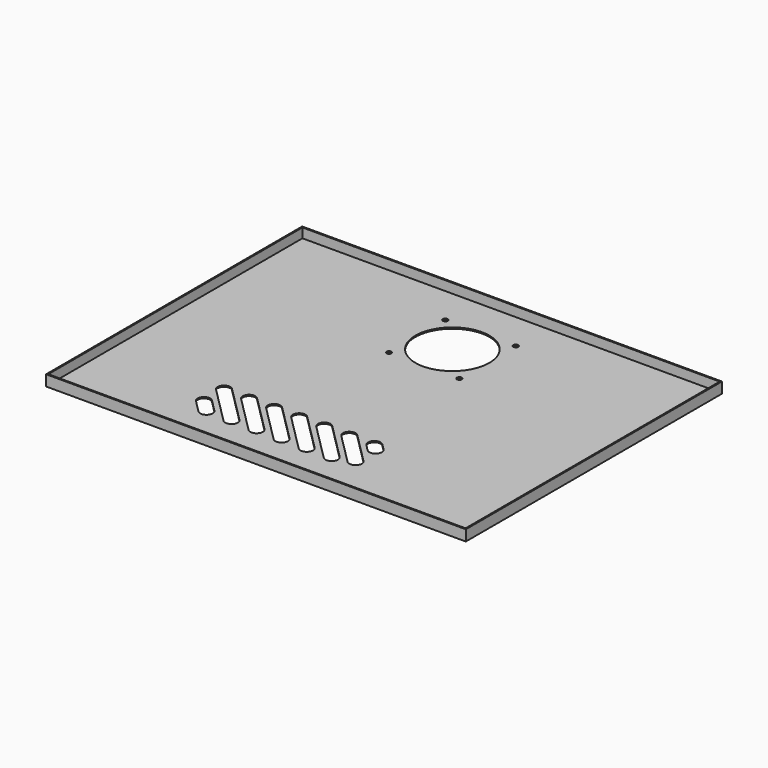
from build123d import *

# Parameters (mm, degrees)
F0_W     = 425.45
F0_H     = 324.485
F0_R     = 2.5
F0_R_2   = 37.5
F1_DEPTH = 1.27
F2_W     = 425.45
F2_H     = 324.485
F2_W_2   = 422.91
F2_H_2   = 321.945
F3_DEPTH = 9.652


with BuildPart() as f1:
    # F0 (on Top) → F1 (new body)
    with BuildSketch(Plane.XY):
        Rectangle(F0_W, F0_H)
        with BuildLine():
            ThreePointArc((-102.915128, -109.578792), (-102.915128, -100.598536), (-93.934872, -100.598536))
            Line((-93.934872, -100.598536), (-81.231036, -113.302372))
            ThreePointArc((-81.231036, -113.302372), (-81.231036, -122.282628), (-90.211292, -122.282628))
            Line((-90.211292, -122.282628), (-102.915128, -109.578792))
        make_face(mode=Mode.SUBTRACT)
        with BuildLine():
            ThreePointArc((-102.915128, -84.182628), (-102.915128, -75.202372), (-93.934872, -75.202372))
            Line((-93.934872, -75.202372), (-55.834872, -113.302372))
            ThreePointArc((-55.834872, -113.302372), (-55.834872, -122.282628), (-64.815128, -122.282628))
            Line((-64.815128, -122.282628), (-102.915128, -84.182628))
        make_face(mode=Mode.SUBTRACT)
        with BuildLine():
            Line((-39.418964, -122.282628), (-77.518964, -84.182628))
            ThreePointArc((-77.518964, -84.182628), (-77.518964, -75.202372), (-68.538708, -75.202372))
            Line((-68.538708, -75.202372), (-30.438708, -113.302372))
            ThreePointArc((-30.438708, -113.302372), (-30.438708, -122.282628), (-39.418964, -122.282628))
        make_face(mode=Mode.SUBTRACT)
        with BuildLine():
            Line((-14.022799, -122.282628), (-52.122799, -84.182628))
            ThreePointArc((-52.122799, -84.182628), (-52.122799, -75.202372), (-43.142543, -75.202372))
            Line((-43.142543, -75.202372), (-5.042543, -113.302372))
            ThreePointArc((-5.042543, -113.302372), (-5.042543, -122.282628), (-14.022799, -122.282628))
        make_face(mode=Mode.SUBTRACT)
        with BuildLine():
            Line((11.373365, -122.282628), (-26.726635, -84.182628))
            ThreePointArc((-26.726635, -84.182628), (-26.726635, -75.202372), (-17.746379, -75.202372))
            Line((-17.746379, -75.202372), (20.353621, -113.302372))
            ThreePointArc((20.353621, -113.302372), (20.353621, -122.282628), (11.373365, -122.282628))
        make_face(mode=Mode.SUBTRACT)
        with BuildLine():
            Line((36.769529, -122.282628), (-1.330471, -84.182628))
            ThreePointArc((-1.330471, -84.182628), (-1.330471, -75.202372), (7.649785, -75.202372))
            Line((7.649785, -75.202372), (45.749785, -113.302372))
            ThreePointArc((45.749785, -113.302372), (45.749785, -122.282628), (36.769529, -122.282628))
        make_face(mode=Mode.SUBTRACT)
        with BuildLine():
            Line((55.834872, -115.951807), (24.065693, -84.182628))
            ThreePointArc((24.065693, -84.182628), (24.065693, -75.202372), (33.04595, -75.202372))
            Line((33.04595, -75.202372), (64.815128, -106.97155))
            ThreePointArc((64.815128, -106.97155), (64.815128, -115.951807), (55.834872, -115.951807))
        make_face(mode=Mode.SUBTRACT)
        with BuildLine():
            Line((55.834872, -90.555642), (49.461858, -84.182628))
            ThreePointArc((49.461858, -84.182628), (49.461858, -75.202372), (58.442114, -75.202372))
            Line((58.442114, -75.202372), (64.815128, -81.575386))
            ThreePointArc((64.815128, -81.575386), (64.815128, -90.555642), (55.834872, -90.555642))
        make_face(mode=Mode.SUBTRACT)
        with Locations((-35.7, 50.9425)):
            Circle(F0_R, mode=Mode.SUBTRACT)
        with Locations((-35.7, 122.3425)):
            Circle(F0_R, mode=Mode.SUBTRACT)
        with Locations((35.7, 50.9425)):
            Circle(F0_R, mode=Mode.SUBTRACT)
        with Locations((0, 86.6425)):
            Circle(F0_R_2, mode=Mode.SUBTRACT)
        with Locations((35.7, 122.3425)):
            Circle(F0_R, mode=Mode.SUBTRACT)
    extrude(amount=F1_DEPTH)

    # F2 (on face) → F3 (join)
    with BuildSketch(Plane.XY.offset(1.27)):
        Rectangle(F2_W, F2_H)
        Rectangle(F2_W_2, F2_H_2, mode=Mode.SUBTRACT)
    extrude(amount=F3_DEPTH)


solid = f1.part
